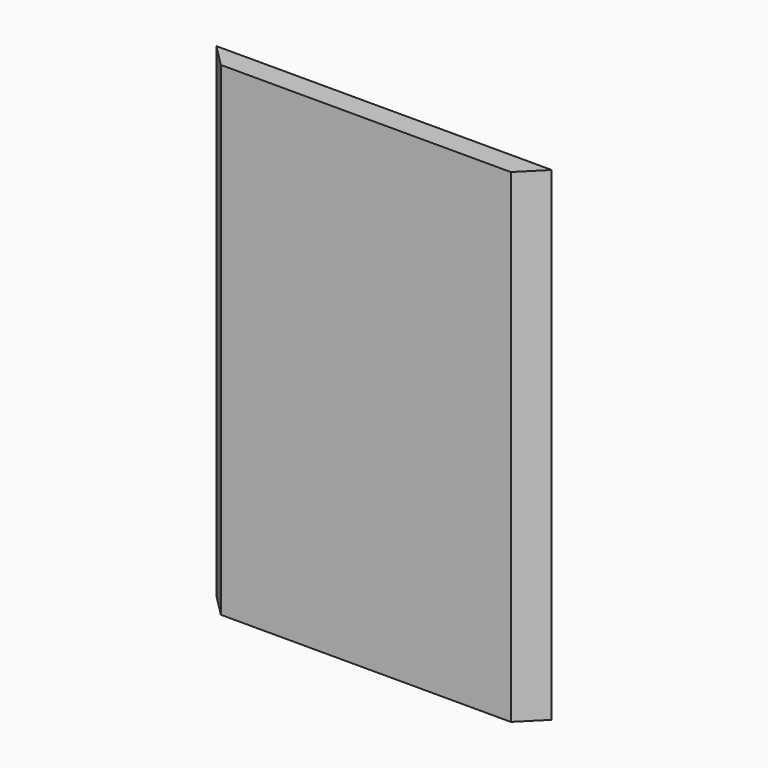
from build123d import *

# Parameters (mm, degrees)
F0_W     = 1460.5
F0_H     = 114.3
F1_DEPTH = 2438.4


with BuildPart() as f1:
    # F0 (on Top) → F1 (new body)
    with BuildSketch(Plane.XY):
        Polygon((-844.55, 57.15), (-730.25, -57.15), (-730.25, 57.15), align=None)
        Rectangle(F0_W, F0_H)
        Polygon((730.25, 57.15), (730.25, -57.15), (844.55, 57.15), align=None)
    extrude(amount=F1_DEPTH)


solid = f1.part
